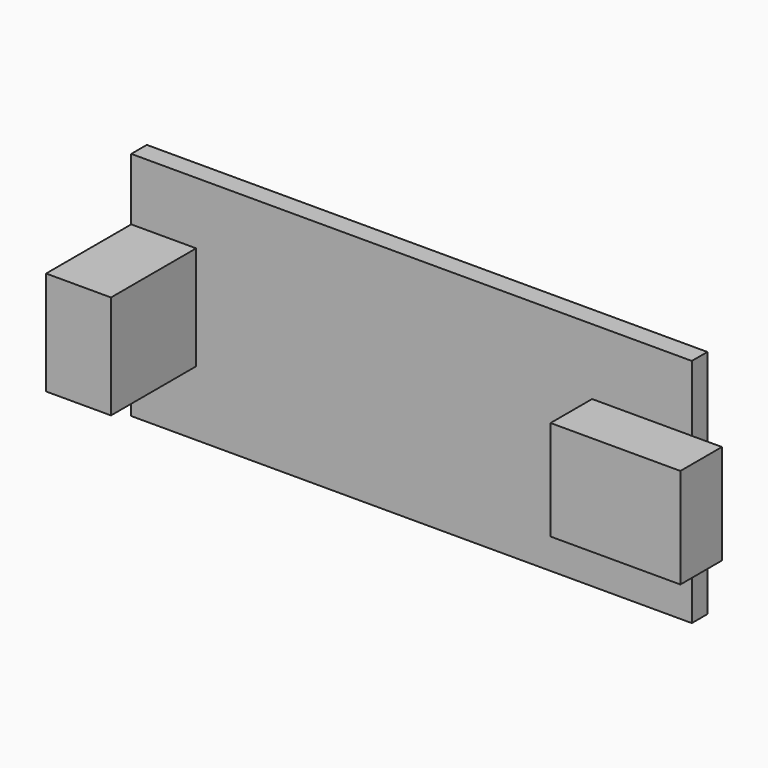
from build123d import *

# Parameters (mm, degrees)
BOX058_W     = 10
BOX058_H     = 4
BOX058_DEPTH = 7.7
BOX057_W     = 43.18
BOX057_H     = 1.5
BOX057_DEPTH = 17.78
BOX069_W     = 5
BOX069_H     = 8.2
BOX069_DEPTH = 8


with BuildPart() as cube057:
    # Box058 → Box058 (new body)
    with BuildSketch(Plane(origin=(34, 18.5, 47), x_dir=(1, 0, 0), z_dir=(0, 0, 1))):
        with Locations((5, 2)):
            Rectangle(BOX058_W, BOX058_H)
    extrude(amount=BOX058_DEPTH)


with BuildPart() as fusion025:
    # Box057 → Box057 (new body)
    with BuildSketch(Plane(origin=(-1.5, 22.5, 42), x_dir=(1, 0, 0), z_dir=(0, 0, 1))):
        with Locations((21.59, 0.75)):
            Rectangle(BOX057_W, BOX057_H)
    extrude(amount=BOX057_DEPTH)

    # Fusion017: union Cube057
    add(cube057.part)


with BuildPart() as arduino:
    # Box069 → Box069 (new body)
    with BuildSketch(Plane(origin=(-1.5, 14.3, 47), x_dir=(1, 0, 0), z_dir=(0, 0, 1))):
        with Locations((2.5, 4.1)):
            Rectangle(BOX069_W, BOX069_H)
    extrude(amount=BOX069_DEPTH)

    # Fusion020: union Fusion025
    add(fusion025.part)


with BuildPart() as arduino_1:
    # Fusion020 placement: moved
    add(arduino.part.moved(Location((26, -10, -0.6))))


solid = arduino_1.part
